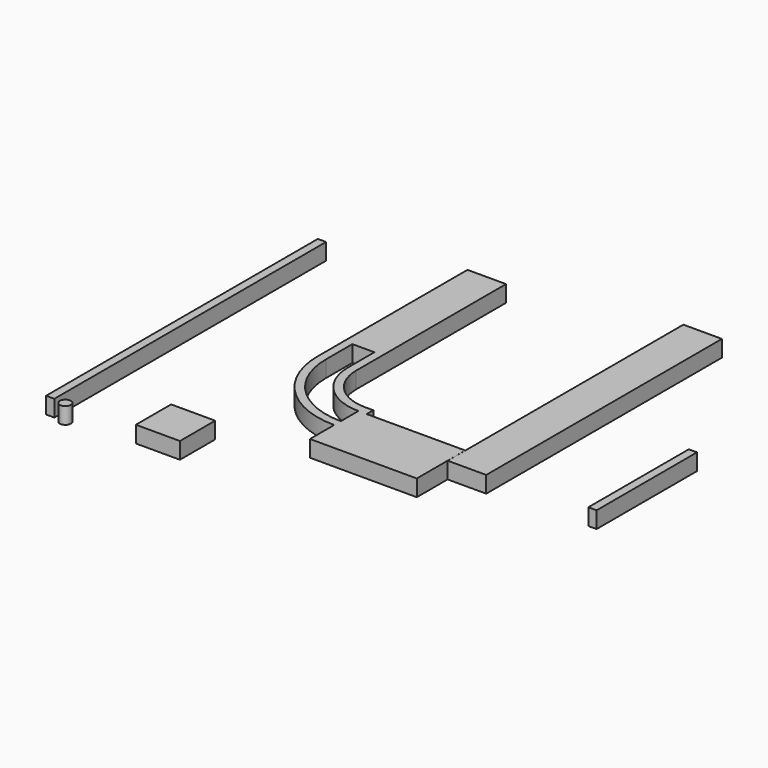
from build123d import *

# Parameters (mm, degrees)
F0_W     = 150
F0_H     = 3400
F0_H_2   = 150
F0_W_2   = 400
F0_H_3   = 2279.557943
F0_W_3   = 800
F0_H_4   = 800
F0_R     = 100
F0_H_5   = 6165.928221
F0_W_4   = 700
F0_H_6   = 5348.66016
F1_DEPTH = 300
F3_DEPTH = 500


with BuildPart() as f1:
    # F0 (on Top) → F1 (new body)
    with BuildSketch(Plane.XY):
        with Locations((-75, 1700)):
            Rectangle(F0_W, F0_H)
        with BuildLine():
            ThreePointArc((800, -800), (234.314575, -565.685425), (0, 0))
            Line((0, 0), (-150, 0))
            ThreePointArc((-150, 0), (128.248558, -671.751442), (800, -950))
            Line((800, -950), (800, -800))
        make_face()
        with Locations((875, -875)):
            Rectangle(F0_W, F0_H_2)
        with Locations((-350, 1700)):
            Rectangle(F0_W_2, F0_H)
        Polygon((950, -950), (800, -950), (800, -1350), (2740, -1350), (2740, -950), align=None)
        with Locations((-625, 1700)):
            Rectangle(F0_W, F0_H)
        with BuildLine():
            ThreePointArc((800, -1350), (-154.594155, -954.594155), (-550, 0))
            Line((-550, 0), (-700, 0))
            ThreePointArc((-700, 0), (-260.660172, -1060.660172), (800, -1500))
            Line((800, -1500), (800, -1350))
        make_face()
        Polygon((2740, -1350), (800, -1350), (800, -1500), (800, -2050), (2740, -2050), align=None)
        with Locations((5266, -82.301021)):
            Rectangle(F0_W, F0_H_3)
        with Locations((-1000, -2850)):
            Rectangle(F0_W_3, F0_H_4)
        with Locations((-2600, -3350)):
            Circle(F0_R)
        with Locations((-2875, -267.03589)):
            Rectangle(F0_W, F0_H_5)
        with Locations((3091, 1323.33008)):
            Rectangle(F0_W_4, F0_H_6)
    extrude(amount=F1_DEPTH)

    # F2 (on Top) → F3 (cut)
    with BuildSketch(Plane.XY):
        with BuildLine():
            ThreePointArc((800, -950), (128.248558, -671.751442), (-150, 0))
            Line((-150, 0), (-150, 600))
            Line((-150, 600), (-550, 600))
            Line((-550, 600), (-550, 0))
            ThreePointArc((-550, 0), (-154.594155, -954.594155), (800, -1350))
            Line((800, -1350), (800, -950))
        make_face()
    extrude(amount=F3_DEPTH, mode=Mode.SUBTRACT)


solid = f1.part
